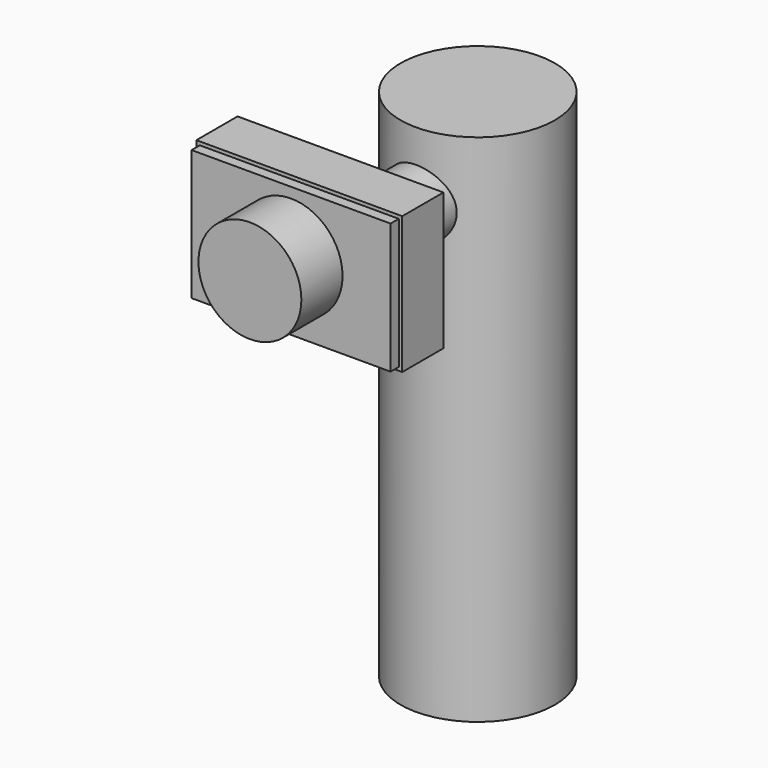
from build123d import *

# Parameters (mm, degrees)
F2_R      = 10
F3_DEPTH  = 50
F5_W      = 60
F5_H      = 40
F6_DEPTH  = 15
F0_R      = 22.5
F8_W      = 58
F8_H      = 38
F9_DEPTH  = 3
F10_R     = 15
F11_DEPTH = 15


with BuildPart() as f3:
    # F2 (on Front) → F3 (new body)
    with BuildSketch(Plane.XZ):
        with Locations((0, 130.387224)):
            Circle(F2_R)
    extrude(amount=F3_DEPTH)

    # F5 (on offset) → F6 (join)
    with BuildSketch(Plane.XZ.offset(50)):
        with Locations((0, 134.238796)):
            Rectangle(F5_W, F5_H)
    extrude(amount=F6_DEPTH)

    # F7: sweep along a path in F1
    with BuildLine(Plane.XZ) as f7_path:
        Line((0, 0), (0, 150))
    # F0 (on Top) → F7 (sweep)
    with BuildSketch(Plane.XY):
        Circle(F0_R)
    sweep(path=f7_path.line)

    # F8 (on face) → F9 (join)
    with BuildSketch(Plane.XZ.offset(65)):
        with Locations((0, 134.238796)):
            Rectangle(F8_W, F8_H)
    extrude(amount=F9_DEPTH)

    # F10 (on face) → F11 (join)
    with BuildSketch(Plane.XZ.offset(68)):
        with Locations((0, 135.238796)):
            Circle(F10_R)
    extrude(amount=F11_DEPTH)


solid = f3.part
